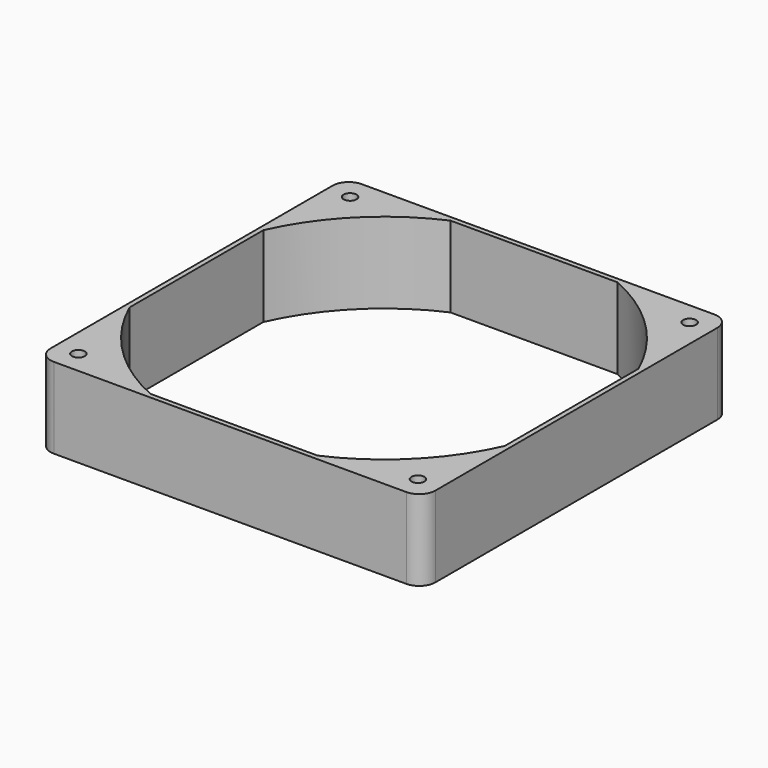
from build123d import *

# Parameters (mm, degrees)
F0_R     = 2
F1_DEPTH = 25


with BuildPart() as f1:
    # F0 (on Top) → F1 (new body)
    with BuildSketch(Plane.XY):
        with BuildLine():
            Line((-58, 54.5), (-58, 25.8505319094))
            ThreePointArc((-58, 25.8505319094), (-44.9012806053, 44.9012806053), (-25.8505319094, 58))
            Line((-25.8505319094, 58), (-54.5, 58))
            ThreePointArc((-54.5, 58), (-56.9748737342, 56.9748737342), (-58, 54.5))
        make_face()
        with Locations((-52.5, 52.5)):
            Circle(F0_R, mode=Mode.SUBTRACT)
        with BuildLine():
            Line((-59.5, 54.5), (-59.5, 22.1810730128))
            ThreePointArc((-59.5, 22.1810730128), (-58.7786418025, 24.0275106462), (-58, 25.8505319094))
            Line((-58, 25.8505319094), (-58, 54.5))
            ThreePointArc((-58, 54.5), (-56.9748737342, 56.9748737342), (-54.5, 58))
            Line((-54.5, 58), (-25.8505319094, 58))
            ThreePointArc((-25.8505319094, 58), (-24.0275106462, 58.7786418025), (-22.1810730128, 59.5))
            Line((-22.1810730128, 59.5), (-54.5, 59.5))
            ThreePointArc((-54.5, 59.5), (-58.0355339059, 58.0355339059), (-59.5, 54.5))
        make_face()
        with BuildLine():
            Line((-59.5, 22.1810730128), (-59.5, -22.1810730128))
            ThreePointArc((-59.5, -22.1810730128), (-58.7786418025, -24.0275106462), (-58, -25.8505319094))
            Line((-58, -25.8505319094), (-58, 1.571e-07))
            Line((-58, 1.571e-07), (-58, 25.8505319094))
            ThreePointArc((-58, 25.8505319094), (-58.7786418025, 24.0275106462), (-59.5, 22.1810730128))
        make_face()
        with BuildLine():
            ThreePointArc((-59.5, -54.5), (-58.0355339059, -58.0355339059), (-54.5, -59.5))
            Line((-54.5, -59.5), (-22.1810730128, -59.5))
            ThreePointArc((-22.1810730128, -59.5), (-24.0275106462, -58.7786418025), (-25.8505319094, -58))
            Line((-25.8505319094, -58), (-54.5, -58))
            ThreePointArc((-54.5, -58), (-56.9748737342, -56.9748737342), (-58, -54.5))
            Line((-58, -54.5), (-58, -25.8505319094))
            ThreePointArc((-58, -25.8505319094), (-58.7786418025, -24.0275106462), (-59.5, -22.1810730128))
            Line((-59.5, -22.1810730128), (-59.5, -54.5))
        make_face()
        with BuildLine():
            Line((-25.8505319094, 58), (-9.82e-08, 58))
            Line((-9.82e-08, 58), (25.8505319094, 58))
            ThreePointArc((25.8505319094, 58), (24.0275106462, 58.7786418025), (22.1810730128, 59.5))
            Line((22.1810730128, 59.5), (-22.1810730128, 59.5))
            ThreePointArc((-22.1810730128, 59.5), (-24.0275106462, 58.7786418025), (-25.8505319094, 58))
        make_face()
        with BuildLine():
            Line((58, 54.5), (58, 25.8505319094))
            ThreePointArc((58, 25.8505319094), (58.7786418025, 24.0275106462), (59.5, 22.1810730128))
            Line((59.5, 22.1810730128), (59.5, 54.5))
            ThreePointArc((59.5, 54.5), (58.0355339059, 58.0355339059), (54.5, 59.5))
            Line((54.5, 59.5), (22.1810730128, 59.5))
            ThreePointArc((22.1810730128, 59.5), (24.0275106462, 58.7786418025), (25.8505319094, 58))
            Line((25.8505319094, 58), (54.5, 58))
            ThreePointArc((54.5, 58), (56.9748737342, 56.9748737342), (58, 54.5))
        make_face()
        with BuildLine():
            ThreePointArc((25.8505319094, 58), (44.9012806053, 44.9012806053), (58, 25.8505319094))
            Line((58, 25.8505319094), (58, 54.5))
            ThreePointArc((58, 54.5), (56.9748737342, 56.9748737342), (54.5, 58))
            Line((54.5, 58), (25.8505319094, 58))
        make_face()
        with Locations((52.5, 52.5)):
            Circle(F0_R, mode=Mode.SUBTRACT)
        with BuildLine():
            Line((58, 0), (58, -25.8505319094))
            ThreePointArc((58, -25.8505319094), (58.7786418025, -24.0275106462), (59.5, -22.1810730128))
            Line((59.5, -22.1810730128), (59.5, 22.1810730128))
            ThreePointArc((59.5, 22.1810730128), (58.7786418025, 24.0275106462), (58, 25.8505319094))
            Line((58, 25.8505319094), (58, 0))
        make_face()
        with BuildLine():
            ThreePointArc((25.8505319094, -58), (24.0275106462, -58.7786418025), (22.1810730128, -59.5))
            Line((22.1810730128, -59.5), (54.5, -59.5))
            ThreePointArc((54.5, -59.5), (58.0355339059, -58.0355339059), (59.5, -54.5))
            Line((59.5, -54.5), (59.5, -22.1810730128))
            ThreePointArc((59.5, -22.1810730128), (58.7786418025, -24.0275106462), (58, -25.8505319094))
            Line((58, -25.8505319094), (58, -54.5))
            ThreePointArc((58, -54.5), (56.9748737342, -56.9748737342), (54.5, -58))
            Line((54.5, -58), (25.8505319094, -58))
        make_face()
        with BuildLine():
            ThreePointArc((-25.8505319094, -58), (-24.0275106462, -58.7786418025), (-22.1810730128, -59.5))
            Line((-22.1810730128, -59.5), (22.1810730128, -59.5))
            ThreePointArc((22.1810730128, -59.5), (24.0275106462, -58.7786418025), (25.8505319094, -58))
            Line((25.8505319094, -58), (-1.602e-07, -58))
            Line((-1.602e-07, -58), (-25.8505319094, -58))
        make_face()
        with BuildLine():
            ThreePointArc((58, -25.8505319094), (44.9012806053, -44.9012806053), (25.8505319094, -58))
            Line((25.8505319094, -58), (54.5, -58))
            ThreePointArc((54.5, -58), (56.9748737342, -56.9748737342), (58, -54.5))
            Line((58, -54.5), (58, -25.8505319094))
        make_face()
        with Locations((52.5, -52.5)):
            Circle(F0_R, mode=Mode.SUBTRACT)
        with BuildLine():
            Line((-54.5, -58), (-25.8505319094, -58))
            ThreePointArc((-25.8505319094, -58), (-44.9012806053, -44.9012806053), (-58, -25.8505319094))
            Line((-58, -25.8505319094), (-58, -54.5))
            ThreePointArc((-58, -54.5), (-56.9748737342, -56.9748737342), (-54.5, -58))
        make_face()
        with Locations((-52.5, -52.5)):
            Circle(F0_R, mode=Mode.SUBTRACT)
    extrude(amount=F1_DEPTH)


solid = f1.part
